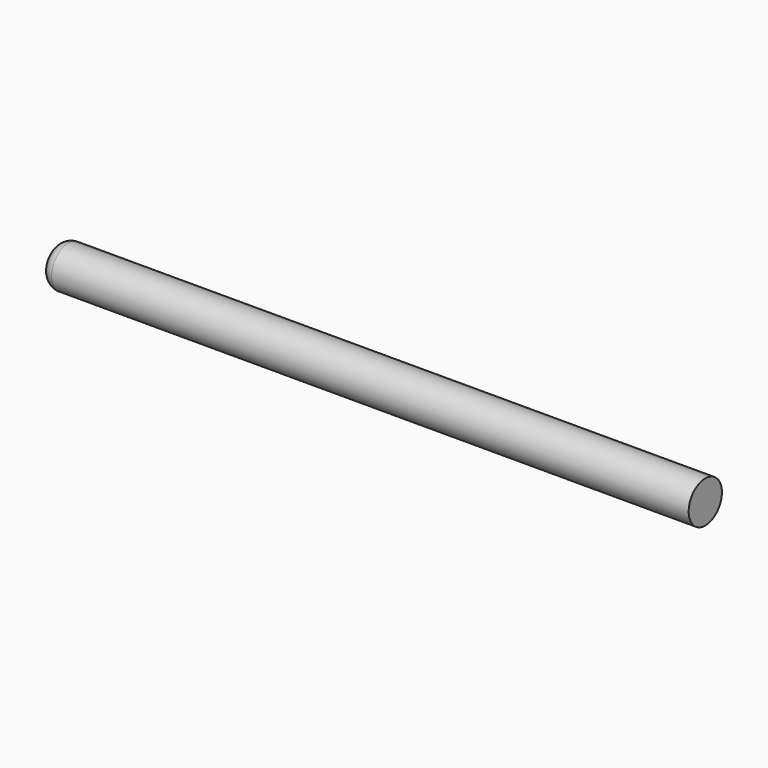
from build123d import *

# Parameters (mm, degrees)
F0_R     = 15.875
F1_DEPTH = 495.3
F2_R     = 8.89


with BuildPart() as f1:
    # F0 (on Right) → F1 (new body)
    with BuildSketch(Plane.YZ):
        with Locations((-180.077761, 19.398566)):
            Circle(F0_R)
    extrude(amount=F1_DEPTH)

    # F2
    f2_edges = [f1.edges().sort_by_distance(p)[0] for p in [
        (0, -195.952761, 19.398566),
    ]]
    fillet(f2_edges, radius=F2_R)


solid = f1.part
